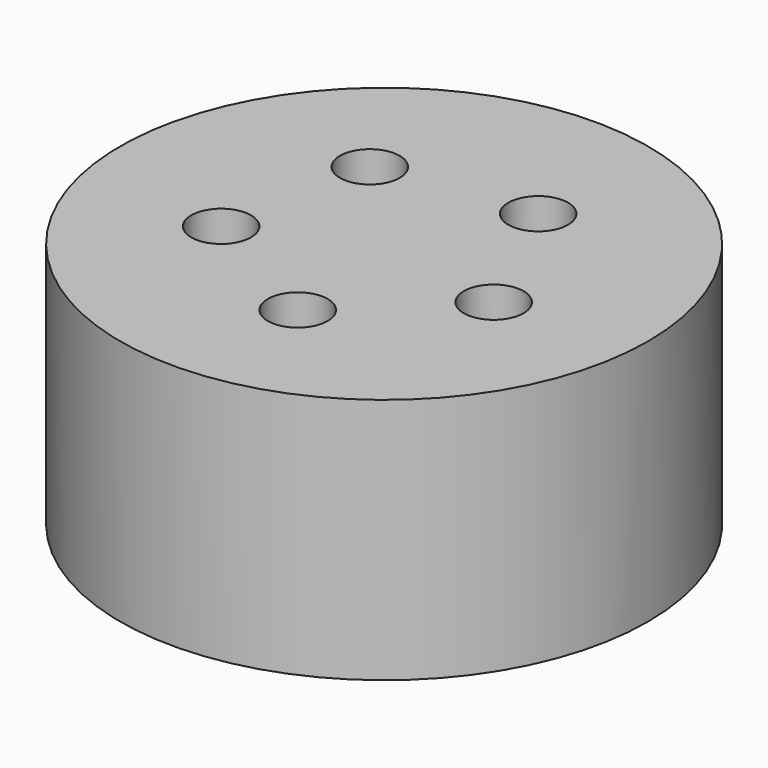
from build123d import *

# Parameters (mm, degrees)
F0_R     = 27.167692
F0_R_2   = 3.077366
F1_DEPTH = 25.4


with BuildPart() as f1:
    # F0 (on Top) → F1 (new body)
    with BuildSketch(Plane.XY):
        Circle(F0_R)
        with Locations((-12.12882, -5.804285)):
            Circle(F0_R_2, mode=Mode.SUBTRACT)
        with Locations((1.772192, -13.328816)):
            Circle(F0_R_2, mode=Mode.SUBTRACT)
        with Locations((13.224095, -2.433376)):
            Circle(F0_R_2, mode=Mode.SUBTRACT)
        with Locations((-9.268215, 9.741571)):
            Circle(F0_R_2, mode=Mode.SUBTRACT)
        with Locations((6.400749, 11.824907)):
            Circle(F0_R_2, mode=Mode.SUBTRACT)
    extrude(amount=F1_DEPTH)


solid = f1.part
